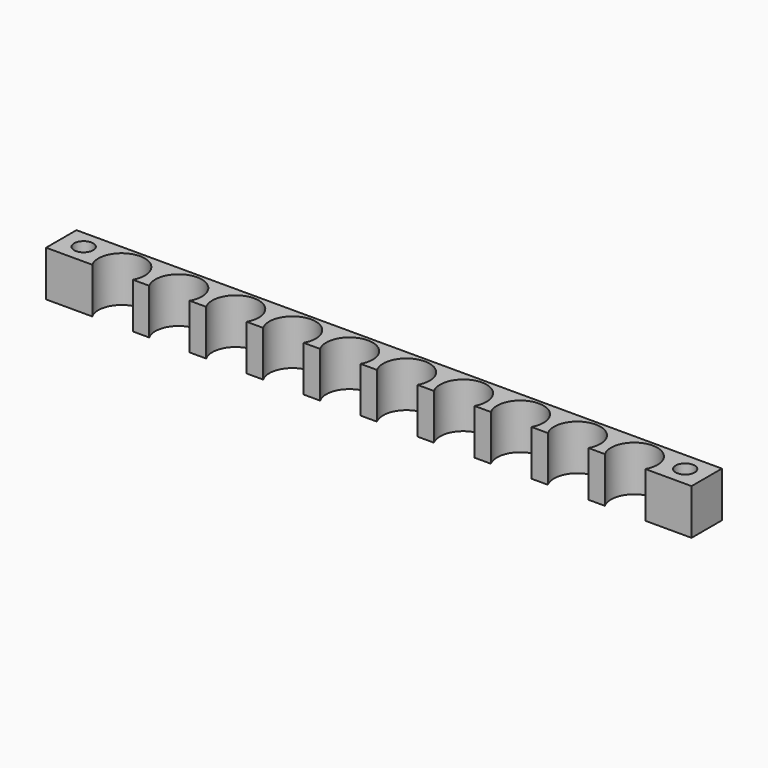
from build123d import *

# Parameters (mm, degrees)
F0_W     = 215.9
F0_H     = 15.24
F1_DEPTH = 12.7
F2_R     = 7.7724
F3_DEPTH = 15.24
F4_R     = 3.175
F5_DEPTH = 15.241


with BuildPart() as f1:
    # F0 (on Front) → F1 (new body)
    with BuildSketch(Plane.XZ):
        Rectangle(F0_W, F0_H)
    extrude(amount=F1_DEPTH)

    # F2 (on face) → F3 (cut)
    with BuildSketch(Plane.XY.offset(7.62)):
        with Locations((-85.725, -8.89)):
            Circle(F2_R)
        with Locations((-66.675, -8.89)):
            Circle(F2_R)
        with Locations((-47.625, -8.89)):
            Circle(F2_R)
        with Locations((-28.575, -8.89)):
            Circle(F2_R)
        with Locations((-9.525, -8.89)):
            Circle(F2_R)
        with Locations((9.525, -8.89)):
            Circle(F2_R)
        with Locations((28.575, -8.89)):
            Circle(F2_R)
        with Locations((47.625, -8.89)):
            Circle(F2_R)
        with Locations((66.675, -8.89)):
            Circle(F2_R)
        with Locations((85.725, -8.89)):
            Circle(F2_R)
    extrude(amount=-F3_DEPTH, mode=Mode.SUBTRACT)

    # F4 (on face) → F5 (cut, through all)
    with BuildSketch(Plane.XY.offset(7.62)):
        with Locations((-100.603828, -6.168369)):
            Circle(F4_R)
        with Locations((100.603828, -6.168369)):
            Circle(F4_R)
    extrude(amount=-F5_DEPTH, mode=Mode.SUBTRACT)


solid = f1.part
